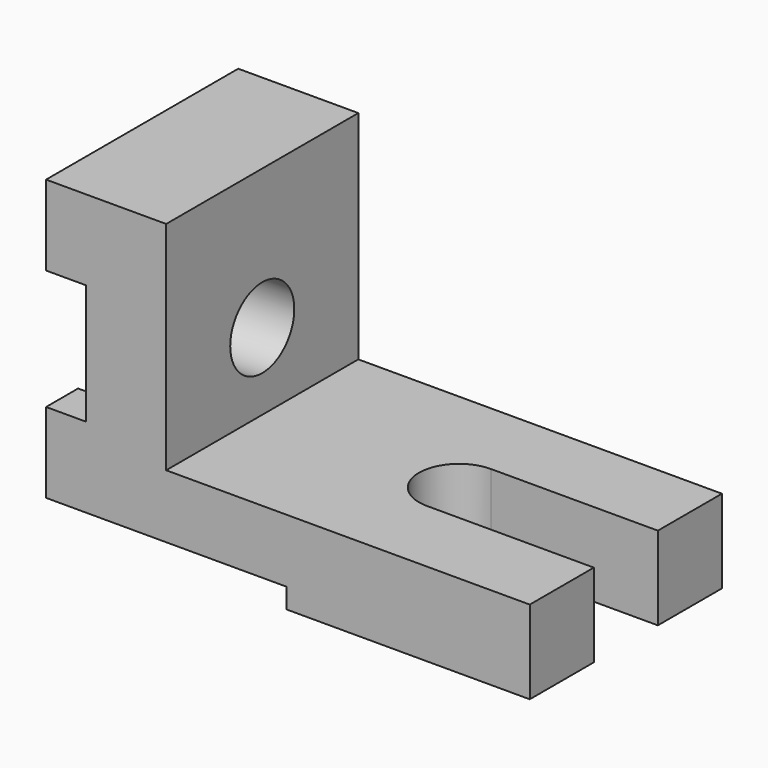
from build123d import *

# Parameters (mm, degrees)
F1_DEPTH  = 36
F3_DEPTH  = 25.001
F4_W      = 72
F4_H      = 6
F5_DEPTH  = 50
F6_R      = 12
F7_DEPTH  = 12
F7_FACE_R = 12
F8_DEPTH  = 145.001


with BuildPart() as f1:
    # F0 (on Front) → F1 (new body, symmetric)
    with BuildSketch(Plane.XZ):
        Polygon((-72, 0), (0, 0), (73, 0), (73, 25), (-36, 25), (-36, 90), (-72, 90), align=None)
    extrude(amount=F1_DEPTH, both=True)

    # F2 (on face) → F3 (cut, through all)
    with BuildSketch(Plane.XY.offset(25)):
        with BuildLine():
            Line((73, 12), (23, 12))
            ThreePointArc((23, 12), (11, 0), (23, -12))
            Line((23, -12), (73, -12))
            Line((73, -12), (73, 12))
        make_face()
        with BuildLine():
            Line((73, 12), (23, 12))
            ThreePointArc((23, 12), (11, 0), (23, -12))
            Line((23, -12), (73, -12))
            Line((73, -12), (73, 12))
        make_face()
    extrude(amount=-F3_DEPTH, mode=Mode.SUBTRACT)

    # F4 (on face) → F5 (cut)
    with BuildSketch(Plane.XZ.offset(36)):
        with Locations((-36, 3)):
            Rectangle(F4_W, F4_H)
    extrude(amount=-F5_DEPTH, mode=Mode.SUBTRACT)

    # F6 (on face) → F7 (cut)
    with BuildSketch(Plane(origin=(-72, 0, 0), x_dir=(0, -1, 0), z_dir=(-1, 0, 0))):
        with BuildLine():
            Line((-36, 30), (-24, 30))
            ThreePointArc((-24, 30), (0, 18), (24, 30))
            Line((24, 30), (36, 30))
            Line((36, 30), (36, 66))
            Line((36, 66), (24, 66))
            ThreePointArc((24, 66), (0, 78), (-24, 66))
            Line((-24, 66), (-36, 66))
            Line((-36, 66), (-36, 30))
        make_face()
        with Locations((0, 48)):
            Circle(F6_R, mode=Mode.SUBTRACT)
    extrude(amount=-F7_DEPTH, mode=Mode.SUBTRACT)

    # F7_face (on face) → F8 (cut, through all)
    with BuildSketch(Plane(origin=(-72, 0, 48), x_dir=(0, -1, 0), z_dir=(-1, 0, 0))):
        Circle(F7_FACE_R)
    extrude(amount=-F8_DEPTH, mode=Mode.SUBTRACT)


solid = f1.part
